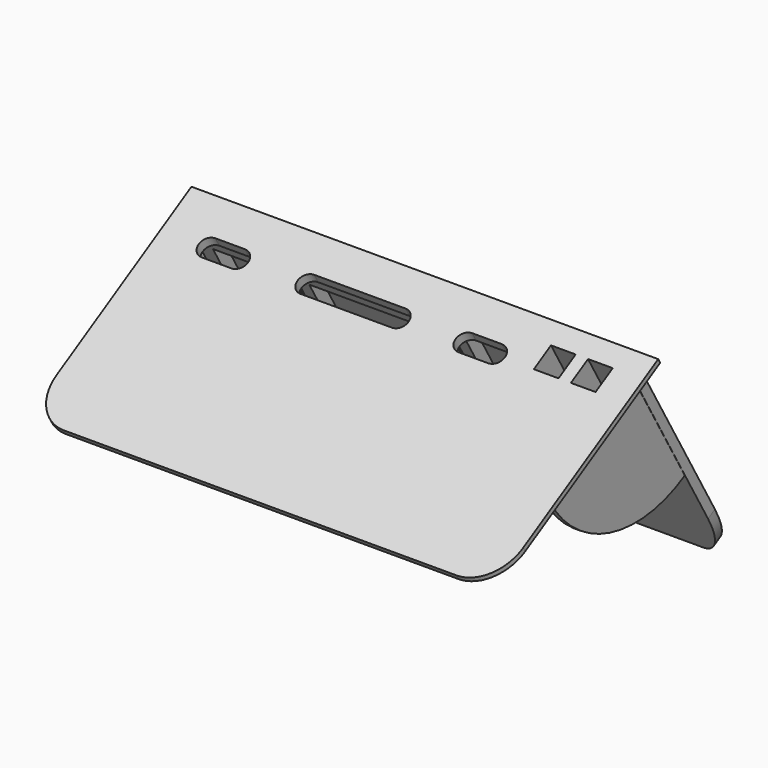
from build123d import *

# Parameters (mm, degrees)
SKETCH020_AS_DRAWN_W                      = 5
SKETCH020_AS_DRAWN_H                      = 5
EXTRUDE021_DEPTH                          = 25
EXTRUDE021_ONTO_SKETCH020_PLACEMENT_ANGLE = 30
SKETCH018_AS_DRAWN_W                      = 17.6
SKETCH018_AS_DRAWN_H                      = 20
SKETCH018_AS_DRAWN_W_2                    = 2.5
EXTRUDE019_DEPTH                          = 2
EXTRUDE019_ONTO_SKETCH018_PLACEMENT_ANGLE = 120
EXTRUDE018_DEPTH                          = 2.5
EXTRUDE018_ONTO_SKETCH017_PLACEMENT_ANGLE = 120
EXTRUDE017_DEPTH                          = 1.2
EXTRUDE016_DEPTH                          = 1.2
EXTRUDE014_DEPTH                          = 1
EXTRUDE015_DEPTH                          = 1
EXTRUDE015_ONTO_SKETCH015_PLACEMENT_ANGLE = 30
EXTRUDE013_DEPTH                          = 2
SKETCH019_AS_DRAWN_W                      = 3.5
SKETCH019_AS_DRAWN_H                      = 20
SKETCH019_AS_DRAWN_W_2                    = 7.5
SKETCH019_AS_DRAWN_W_3                    = 20.1
EXTRUDE020_DEPTH                          = 2
EXTRUDE020_ONTO_SKETCH019_PLACEMENT_ANGLE = 120


with BuildPart() as extrude021:
    # Sketch020 as drawn → Extrude021 (new)
    with BuildSketch(Plane.XY):
        with BuildLine():
            ThreePointArc((-17.5, 26.7697348593), (-19.5, 24.7697348593), (-17.5, 22.7697348593))
            Line((-17.5, 22.7697348593), (1, 22.7697348593))
            ThreePointArc((1, 22.7697348593), (3, 24.7697348593), (1, 26.7697348593))
            Line((1, 26.7697348593), (-17.5, 26.7697348593))
        make_face()
        with BuildLine():
            ThreePointArc((-31.5, 22.7697348593), (-29.5, 24.7697348593), (-31.5, 26.7697348593))
            Line((-31.5, 26.7697348593), (-37.5, 26.7697348593))
            ThreePointArc((-37.5, 26.7697348593), (-39.5, 24.7697348593), (-37.5, 22.7697348593))
            Line((-37.5, 22.7697348593), (-31.5, 22.7697348593))
        make_face()
        with BuildLine():
            ThreePointArc((14.5, 26.7697348593), (12.5, 24.7697348593), (14.5, 22.7697348593))
            Line((14.5, 22.7697348593), (20.5, 22.7697348593))
            ThreePointArc((20.5, 22.7697348593), (22.5, 24.7697348593), (20.5, 26.7697348593))
            Line((20.5, 26.7697348593), (14.5, 26.7697348593))
        make_face()
        with Locations((31, 27.0697348593)):
            Rectangle(SKETCH020_AS_DRAWN_W, SKETCH020_AS_DRAWN_H)
        with Locations((38.5, 27.0697348593)):
            Rectangle(SKETCH020_AS_DRAWN_W, SKETCH020_AS_DRAWN_H)
    extrude(amount=-EXTRUDE021_DEPTH)


with BuildPart() as extrude021_1:
    # Extrude021 onto Sketch020 placement: moved
    add(extrude021.part.moved(Location((0, -21.15, 36.6328745801))).rotate(Axis((0, -21.15, 36.6328745801), (1, 0, 0)), EXTRUDE021_ONTO_SKETCH020_PLACEMENT_ANGLE))


with BuildPart() as extrude019:
    # Sketch018 as drawn → Extrude019 (new)
    with BuildSketch(Plane.XY):
        with Locations((34.8, 30.3)):
            Rectangle(SKETCH018_AS_DRAWN_W, SKETCH018_AS_DRAWN_H)
        with Locations((-24.25, 30.3)):
            Rectangle(SKETCH018_AS_DRAWN_W_2, SKETCH018_AS_DRAWN_H)
        with Locations((7.75, 30.3)):
            Rectangle(SKETCH018_AS_DRAWN_W_2, SKETCH018_AS_DRAWN_H)
    extrude(amount=EXTRUDE019_DEPTH)


with BuildPart() as extrude019_1:
    # Extrude019 onto Sketch018 placement: moved
    add(extrude019.part.moved(Location((0, 23.4430780618, 13.5348674296))).rotate(Axis((0, 23.4430780618, 13.5348674296), (1, 0, 0)), EXTRUDE019_ONTO_SKETCH018_PLACEMENT_ANGLE))


with BuildPart() as extrude018:
    # Sketch017 as drawn → Extrude018 (new)
    with BuildSketch(Plane.XY):
        Polygon((-43.5, 40.3), (43.6, 40.3), (43.6, 20.3), (23.5, 20.3), (23.5, 40.2), (11.5, 40.2), (11.5, 20.3), (4, 20.3), (4, 37.8), (-20.5, 37.8), (-20.5, 20.3), (-29, 20.3), (-29, 37.8), (-40, 37.8), (-40, 20.3), (-43.5, 20.3), align=None)
    extrude(amount=EXTRUDE018_DEPTH)


with BuildPart() as extrude018_1:
    # Extrude018 onto Sketch017 placement: moved
    add(extrude018.part.moved(Location((0, 25.6081415713, 14.7848674296))).rotate(Axis((0, 25.6081415713, 14.7848674296), (1, 0, 0)), EXTRUDE018_ONTO_SKETCH017_PLACEMENT_ANGLE))


with BuildPart() as extrude017:
    # Sketch016 → Extrude017 (new body)
    with BuildSketch(Plane.YZ):
        with BuildLine():
            Line((5.4581415713, 49.6856912021), (-16.1924935233, 37.1856912021))
            ThreePointArc((-16.1924935233, 37.1856912021), (-1.0123345563, 25.5375455449), (17.9581415713, 28.0350561075))
            Line((5.4581415713, 49.6856912021), (17.9581415713, 28.0350561075))
        make_face()
    extrude(amount=EXTRUDE017_DEPTH)


with BuildPart() as extrude017_1:
    # Extrude017 placement: moved
    add(extrude017.part.moved(Location((-44.7, 0, 0))))


with BuildPart() as extrude016:
    # Sketch016 → Extrude016 (new body)
    with BuildSketch(Plane.YZ):
        with BuildLine():
            Line((5.4581415713, 49.6856912021), (-16.1924935233, 37.1856912021))
            ThreePointArc((-16.1924935233, 37.1856912021), (-1.0123345563, 25.5375455449), (17.9581415713, 28.0350561075))
            Line((5.4581415713, 49.6856912021), (17.9581415713, 28.0350561075))
        make_face()
    extrude(amount=EXTRUDE016_DEPTH)


with BuildPart() as extrude016_1:
    # Extrude016 placement: moved
    add(extrude016.part.moved(Location((43.6, 0, 0))))


with BuildPart() as extrude014:
    # Facebinder001 → Extrude014 (new body)
    with BuildSketch(Plane(origin=(0, -11.8962827712, 40.8208101747), x_dir=(-1, 0, 0), z_dir=(0, -0.5, 0.8660254038))):
        with BuildLine():
            Line((44.85, -21.4618128624), (44.85, 15.708219608))
            add(Edge.make_bspline(
                [(44.85, 15.708219608), (44.85, 21.5971923538), (39.75, 21.5971923538)],
                knots=[4.7123889804, 4.7123889804, 4.7123889804, 6.2831853072, 6.2831853072, 6.2831853072], degree=2, weights=[1, 0.7071067812, 1]))
            Line((39.75, 21.5971923538), (-39.75, 21.5971923538))
            add(Edge.make_bspline(
                [(-39.75, 21.5971923538), (-44.85, 21.5971923538), (-44.85, 15.708219608)],
                knots=[0, 0, 0, 1.5707963268, 1.5707963268, 1.5707963268], degree=2, weights=[1, 0.7071067812, 1]))
            Line((-44.85, 15.708219608), (-44.85, -21.4618128624))
            Line((-44.85, -21.4618128624), (44.85, -21.4618128624))
        make_face()
    extrude(amount=-EXTRUDE014_DEPTH)


with BuildPart() as extrude015:
    # Sketch015 as drawn → Extrude015 (new)
    with BuildSketch(Plane.XY):
        with BuildLine():
            Line((-47.25, -5.6002976111), (-47.25, 31.8410161514))
            Line((-47.25, 31.8410161514), (-47.25, 33.8410161514))
            Line((-47.25, 33.8410161514), (-45.25, 33.8410161514))
            Line((-45.25, 33.8410161514), (45.25, 33.8410161514))
            Line((45.25, 33.8410161514), (47.25, 33.8410161514))
            Line((47.25, 33.8410161514), (47.25, 31.8410161514))
            Line((47.25, 31.8410161514), (47.25, -5.6002976111))
            add(Edge.make_bspline(
                [(39.75, -14.260551649), (47.25, -14.260551649), (47.25, -5.6002976111)],
                knots=[0, 0, 0, 1.5707963268, 1.5707963268, 1.5707963268], degree=2, weights=[1, 0.7071067812, 1]))
            Line((39.75, -14.260551649), (-39.75, -14.260551649))
            add(Edge.make_bspline(
                [(-47.25, -5.6002976111), (-47.25, -14.260551649), (-39.75, -14.260551649)],
                knots=[4.7123889804, 4.7123889804, 4.7123889804, 6.2831853072, 6.2831853072, 6.2831853072], degree=2, weights=[1, 0.7071067812, 1]))
        make_face()
    extrude(amount=EXTRUDE015_DEPTH)


with BuildPart() as extrude015_1:
    # Extrude015 onto Sketch015 placement: moved
    add(extrude015.part.moved(Location((0, -20.65, 35.7668491763))).rotate(Axis((0, -20.65, 35.7668491763), (1, 0, 0)), EXTRUDE015_ONTO_SKETCH015_PLACEMENT_ANGLE))


with BuildPart() as inner_complete:
    # Facebinder → Extrude013 (new body)
    with BuildSketch(Plane(origin=(0, 18.5885038732, 30.9432365735), x_dir=(1, 0, 0), z_dir=(0, 0.8660254038, 0.5))):
        with BuildLine():
            Line((39.75, 24.0229922536), (-39.75, 24.0229922536))
            add(Edge.make_bspline(
                [(-39.75, 24.0229922536), (-44.85, 24.0229922536), (-44.85, 13.8229922536)],
                knots=[0, 0, 0, 1.5707963268, 1.5707963268, 1.5707963268], degree=2, weights=[1, 0.7071067812, 1]))
            Line((-44.85, 13.8229922536), (-44.85, -23.7966229887))
            Line((-44.85, -23.7966229887), (44.85, -23.7966229887))
            Line((44.85, -23.7966229887), (44.85, 13.8229922536))
            add(Edge.make_bspline(
                [(44.85, 13.8229922536), (44.85, 24.0229922536), (39.75, 24.0229922536)],
                knots=[4.7123889804, 4.7123889804, 4.7123889804, 6.2831853072, 6.2831853072, 6.2831853072], degree=2, weights=[1, 0.7071067812, 1]))
        make_face()
    extrude(amount=-EXTRUDE013_DEPTH)

    # Connect003: union Extrude014, Extrude015
    add(extrude014.part)
    add(extrude015_1.part)


with BuildPart() as cut006:
    # Sketch019 as drawn → Extrude020 (new)
    with BuildSketch(Plane.XY):
        with Locations((-41.75, 30.3)):
            Rectangle(SKETCH019_AS_DRAWN_W, SKETCH019_AS_DRAWN_H)
        Polygon((-29, 40.3), (-20.5, 40.3), (-20.5, 20.3), (-25.5, 20.3), (-25.5, 35.3), (-29, 35.3), align=None)
        with Locations((7.75, 30.3)):
            Rectangle(SKETCH019_AS_DRAWN_W_2, SKETCH019_AS_DRAWN_H)
        with Locations((33.55, 30.3)):
            Rectangle(SKETCH019_AS_DRAWN_W_3, SKETCH019_AS_DRAWN_H)
    extrude(amount=EXTRUDE020_DEPTH)


with BuildPart() as cut006_1:
    # Extrude020 onto Sketch019 placement: moved
    add(cut006.part.moved(Location((0, 21.7110272543, 12.5348674296))).rotate(Axis((0, 21.7110272543, 12.5348674296), (1, 0, 0)), EXTRUDE020_ONTO_SKETCH019_PLACEMENT_ANGLE))

    # Connect004: union Extrude019, Extrude018, Extrude017, Extrude016, inner_complete
    add(extrude019_1.part)
    add(extrude018_1.part)
    add(extrude017_1.part)
    add(extrude016_1.part)
    add(inner_complete.part)

    # Cut006: cut Extrude021
    add(extrude021_1.part, mode=Mode.SUBTRACT)


solid = cut006_1.part
